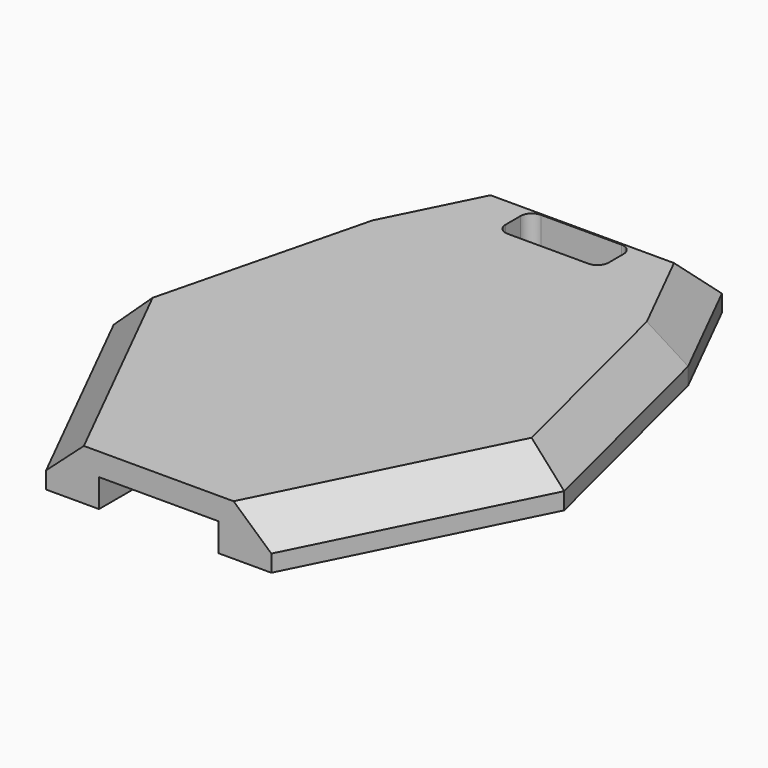
from build123d import *

# Parameters (mm, degrees)
F0_W     = 9.14162
F0_H     = 3.65658
F1_DEPTH = 4.5
F3_DEPTH = 2
F4_SIZE  = 3
F5_R     = 1


with BuildPart() as f1:
    # F0 (on Top) → F1 (new body)
    with BuildSketch(Plane.XY):
        Polygon((10, 54.982383), (-10, 54.982383), (-15, 44.982383), (-20, 24.982383), (-10, 4.982383), (-5.3, 4.982383), (-5.3, 11.982383), (-12.109291, 19.710485), (-6.632093, 24.536487), (5.3, 10.282383), (5.3, 4.982383), (10, 4.982383), (20, 24.982383), (15, 44.982383), align=None)
        with Locations((0, 50.028853)):
            Rectangle(F0_W, F0_H, mode=Mode.SUBTRACT)
    extrude(amount=F1_DEPTH)

    # F2 (on face) → F3 (join)
    with BuildSketch(Plane.XY.offset(4.5)):
        Polygon((-5.3, 11.982383), (-5.3, 4.982383), (5.3, 4.982383), (5.3, 10.282383), (-6.632093, 24.536487), (-12.109291, 19.710485), align=None)
    extrude(amount=-F3_DEPTH)

    # F4
    f4_edges = [f1.edges().sort_by_distance(p)[0] for p in [
        (-15, 14.982383, 4.5),
        (-17.5, 34.982383, 4.5),
        (0, 54.982383, 4.5),
        (12.5, 49.982383, 4.5),
        (17.5, 34.982383, 4.5),
        (15, 14.982383, 4.5),
        (-12.5, 49.982383, 4.5),
    ]]
    chamfer(f4_edges, length=F4_SIZE)

    # F5
    f5_edges = [f1.edges().sort_by_distance(p)[0] for p in [
        (-4.57081, 48.200563, 2.25),
        (-4.57081, 51.857143, 2.25),
        (4.57081, 51.857143, 2.25),
        (4.57081, 48.200563, 2.25),
    ]]
    fillet(f5_edges, radius=F5_R)


solid = f1.part
